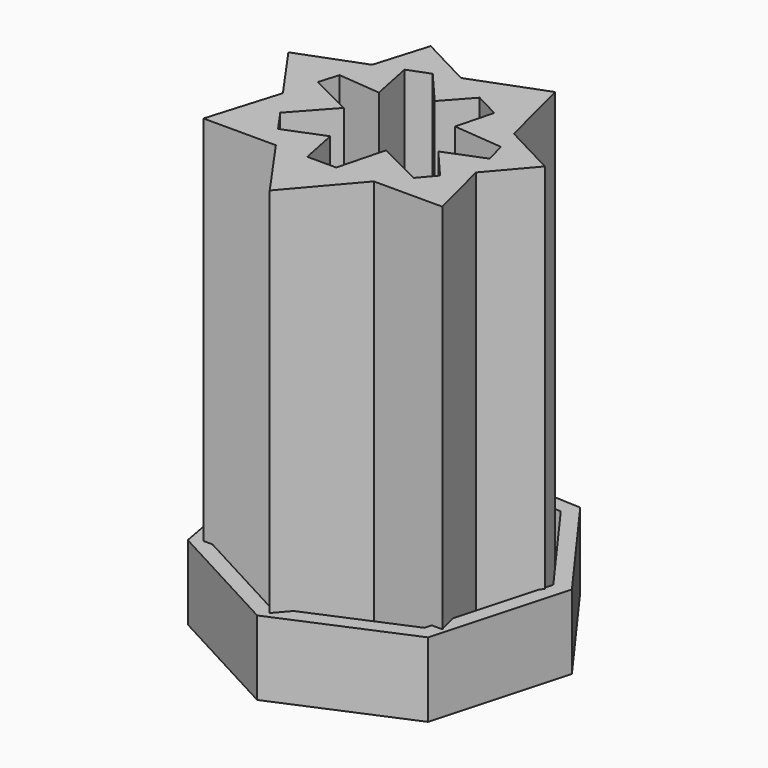
from build123d import *

# Parameters (mm, degrees)
F1_DEPTH = 12.7
F2_T     = -2.54
F4_DEPTH = 76.2


with BuildPart() as f1:
    # F0 (on Top) → F1 (new body)
    with BuildSketch(Plane.XY):
        Polygon((-21.7536917176, -12.3002491378), (0, -3.0150827952), (6.3037695721, 19.7818447728), (-7.5892500626, 38.9239821348), (-31.2173317532, 39.9969094289), (-46.7880480617, 22.1926905188), (-42.576332023, -1.0817346162), align=None)
    extrude(amount=F1_DEPTH)

    # F2
    f2_openings = [f1.faces().sort_by_distance(p)[0] for p in [
        (-20.517269, 14.928337, 12.7),
    ]]
    offset(amount=F2_T, openings=f2_openings)


with BuildPart() as f4:
    # F3 (on Top) → F4 (new body)
    with BuildSketch(Plane.XY):
        Polygon((-24.9541892799, 29.1589198967), (-30.1561765373, 35.2374315262), (-28.6457198947, 27.7570729649), align=None)
        Polygon((-28.6457198947, 27.7570729649), (-30.1561765373, 35.2374315262), (-32.8926643221, 26.1443094161), align=None)
        Polygon((-21.2510568463, 30.5651725821), (-30.1561765373, 35.2374315262), (-24.9541892799, 29.1589198967), align=None)
        Polygon((-27.168665519, 20.4421351944), (-28.6457198947, 27.7570729649), (-32.8926643221, 26.1443094161), (-34.4076260453, 21.1102171695), align=None)
        Polygon((-15.7645343665, 27.6865527973), (-21.2510568463, 30.5651725821), (-24.9541892799, 29.1589198967), (-19.8353466439, 23.1775625898), align=None)
        Polygon((-8.9474404231, 35.2374315262), (-21.2510568463, 30.5651725821), (-15.7645343665, 27.6865527973), align=None)
        Polygon((-34.4076260453, 21.1102171695), (-32.8926643221, 26.1443094161), (-43.8534840941, 21.981973201), align=None)
        Polygon((-11.4900100358, 25.4438334146), (-8.9474404231, 35.2374315262), (-15.7645343665, 27.6865527973), align=None)
        Polygon((-5.6876512873, 22.3995034673), (-8.9474404231, 35.2374315262), (-11.4900100358, 25.4438334146), align=None)
        Polygon((-35.4177963356, 17.7535050172), (-43.8534840941, 21.981973201), (-37.0562656404, 12.3090073128), align=None)
        Polygon((-34.4076260453, 21.1102171695), (-43.8534840941, 21.981973201), (-35.4177963356, 17.7535050172), align=None)
        Polygon((3.4243194386, 17.6187157631), (-5.6876512873, 22.3995034673), (-4.6632449329, 18.3651151887), align=None)
        Polygon((-4.6632449329, 18.3651151887), (-5.6876512873, 22.3995034673), (-11.4900100358, 25.4438334146), (-13.1250121364, 19.1460497061), align=None)
        Polygon((-35.4177963356, 17.7535050172), (-37.0562656404, 12.3090073128), (-33.8137030162, 7.6945907145), (-28.0614147249, 14.0660492366), align=None)
        Polygon((-33.8137030162, 7.6945907145), (-37.0562656404, 12.3090073128), (-40.7605431974, 0), align=None)
        Polygon((3.4243194386, 17.6187157631), (-4.6632449329, 18.3651151887), (-3.7475663134, 14.7589260294), align=None)
        Polygon((-2.6696306706, 10.513724988), (3.4243194386, 17.6187157631), (-3.7475663134, 14.7589260294), align=None)
        Polygon((-31.1106266284, 3.8479046222), (-33.8137030162, 7.6945907145), (-40.7605431974, 0), align=None)
        Polygon((-31.1106266284, 3.8479046222), (-40.7605431974, 0), (-28.4066939765, 0), align=None)
        Polygon((-23.0409277054, 0), (-24.3613393683, 6.5391831901), (-31.1106266284, 3.8479046222), (-28.4066939765, 0), align=None)
        Polygon((-2.6696306706, 10.513724988), (-3.7475663134, 14.7589260294), (-10.3705782251, 12.1179997618), (-5.8371448342, 6.8206919783), align=None)
        Polygon((0, 0), (-2.6696306706, 10.513724988), (-5.8371448342, 6.8206919783), align=None)
        Polygon((-23.0409277054, 0), (-28.4066939765, 0), (-20.8773575723, -10.7148261741), align=None)
        Polygon((-18.0956228998, 0), (-23.0409277054, 0), (-20.8773575723, -10.7148261741), align=None)
        Polygon((-8.1733023974, 4.0969450427), (-16.0119167724, 8.0261245522), (-18.0956228998, 0), (-11.6872518846, 0), align=None)
        Polygon((-11.6872518846, 0), (0, 0), (-8.1733023974, 4.0969450427), align=None)
        Polygon((-8.1733023974, 4.0969450427), (0, 0), (-5.8371448342, 6.8206919783), align=None)
        Polygon((-18.0956228998, 0), (-20.8773575723, -10.7148261741), (-11.6872518846, 0), align=None)
    extrude(amount=F4_DEPTH)


solid = Compound([f1.part, f4.part])
